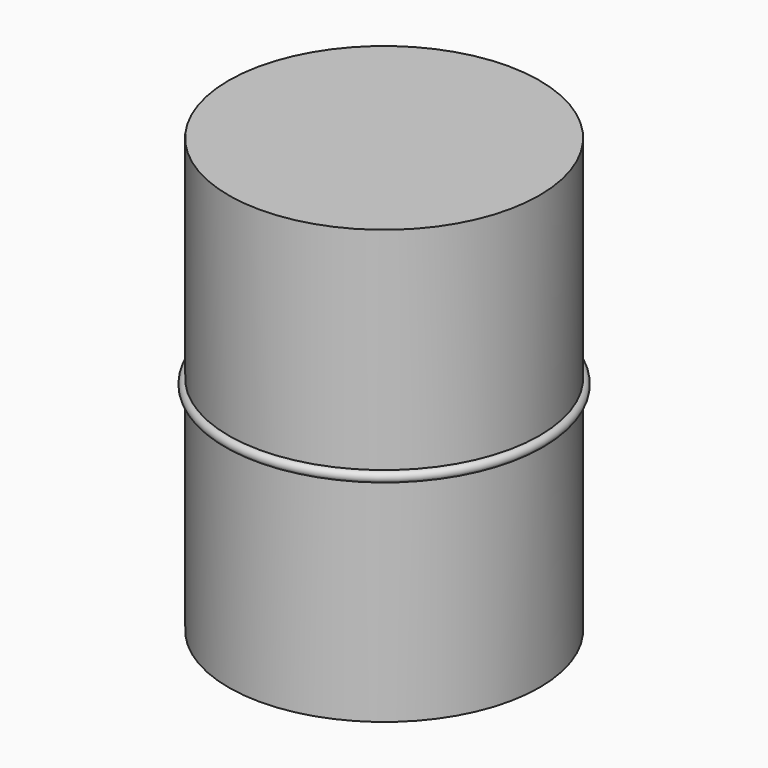
from build123d import *

# Parameters (mm, degrees)
F0_R     = 17.939
F1_DEPTH = 25
F2_R     = 0.591216


with BuildPart() as f1:
    # F0 (on Top) → F1 (new body, symmetric)
    with BuildSketch(Plane.XY):
        Circle(F0_R)
    extrude(amount=F1_DEPTH, both=True)

    # F2 (on Front) → F3 (revolve, cut)
    with BuildSketch(Plane.XZ):
        with Locations((17.950652, 0)):
            Circle(F2_R)
    revolve(axis=Axis((0, 0, 10.13613), (0, 0, -1)), mode=Mode.SUBTRACT)


with BuildPart() as f4:
    # F2 (on Front) → F4 (revolve)
    with BuildSketch(Plane.XZ):
        with Locations((17.950652, 0)):
            Circle(F2_R)
    revolve(axis=Axis((0, 0, 10.13613), (0, 0, -1)))


solid = Compound([f1.part, f4.part])
